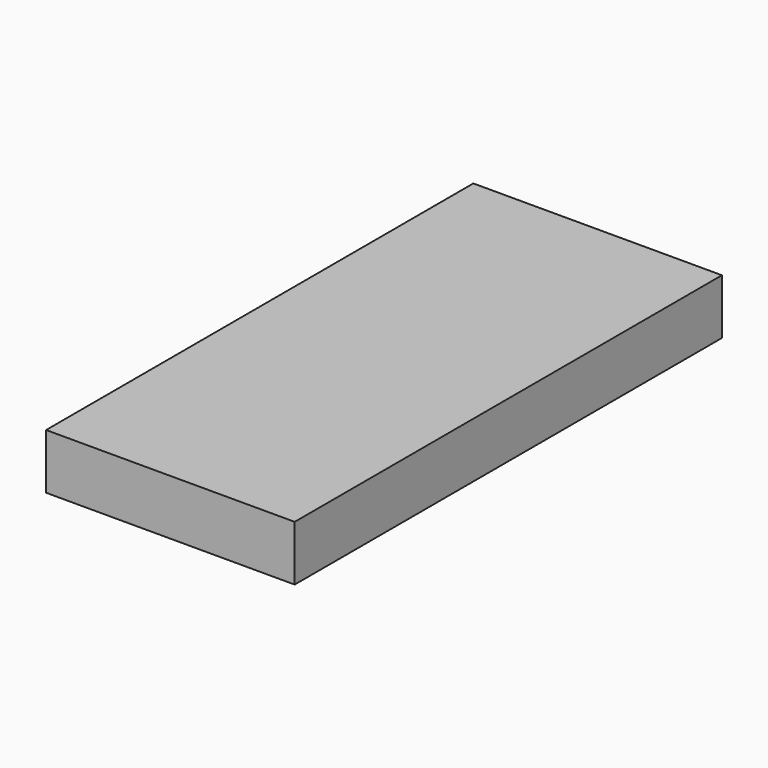
from build123d import *

# Parameters (mm, degrees)
F0_W     = 54
F0_H     = 12
F1_DEPTH = 70
F2_W     = 54
F2_H     = 12
F3_DEPTH = 100


with BuildPart() as f1:
    # F0 (on Front) → F1 (new body, symmetric)
    with BuildSketch(Plane.XZ):
        Rectangle(F0_W, F0_H)
    extrude(amount=F1_DEPTH, both=True)

    # F2 (on face) → F3 (cut)
    with BuildSketch(Plane.XY.offset(6)):
        with Locations((0, 64)):
            Rectangle(F2_W, F2_H)
        with Locations((0, -64)):
            Rectangle(F2_W, F2_H)
    extrude(amount=-F3_DEPTH, mode=Mode.SUBTRACT)


solid = f1.part
